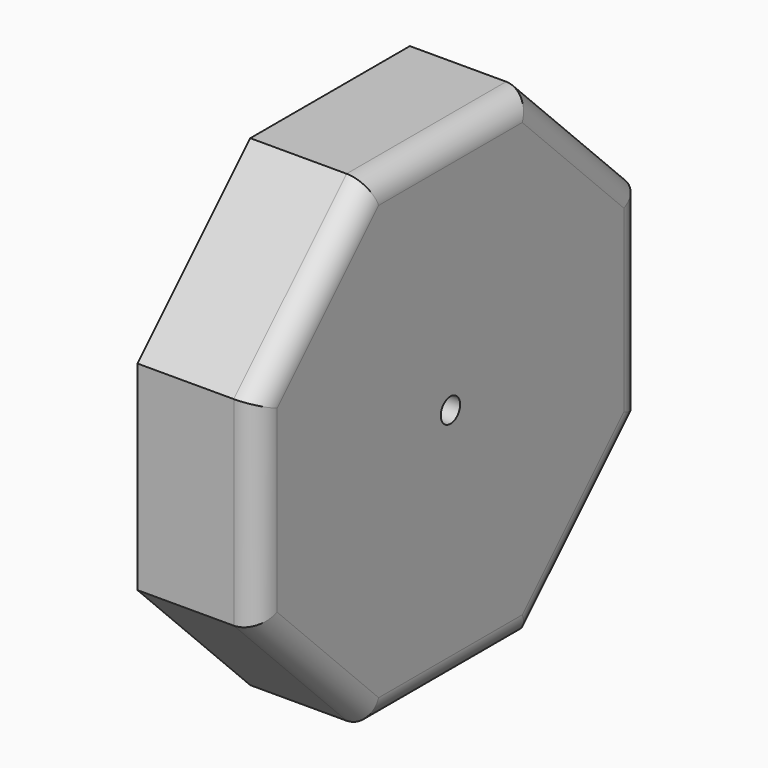
from build123d import *

# Parameters (mm, degrees)
F1_DEPTH = 25.4
F2_R     = 5.08
F3_D     = 5.1054


with BuildPart() as f1:
    # F0 (on Right) → F1 (new body)
    with BuildSketch(Plane.YZ):
        Polygon((50.8, -21.0420489686), (50.8, 21.0420489686), (21.0420489686, 50.8), (-21.0420489686, 50.8), (-50.8, 21.0420489686), (-50.8, -21.0420489686), (-21.0420489686, -50.8), (21.0420489686, -50.8), align=None)
    extrude(amount=F1_DEPTH)

    # F2
    f2_edges = [f1.edges().sort_by_distance(p)[0] for p in [
        (25.4, -35.921024, 35.921024),
        (25.4, -50.8, 0),
        (25.4, -35.921024, -35.921024),
        (25.4, 0, -50.8),
        (25.4, 35.921024, -35.921024),
        (25.4, 50.8, 0),
        (25.4, 35.921024, 35.921024),
        (25.4, 0, 50.8),
    ]]
    fillet(f2_edges, radius=F2_R)

    # F3 (through all)
    with Locations(Plane(origin=(0, 0, 0), x_dir=(0, 1, 0), z_dir=(-1, 0, 0))):
        with Locations((0, 0)):
            Hole(F3_D / 2)


solid = f1.part
